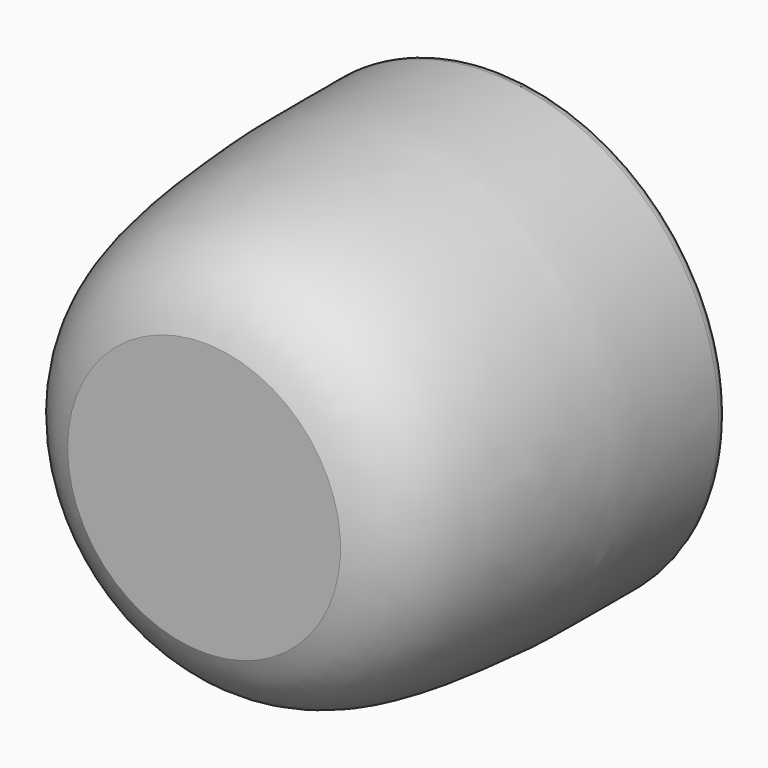
from build123d import *


with BuildPart() as f1:
    # F0 (on Top) → F1 (revolve)
    with BuildSketch(Plane.XY):
        with BuildLine():
            Line((-25.8921254426, 0), (0, 0))
            Line((0, 0), (0, 5.667374935))
            Line((0, 5.667374935), (-25.8921254426, 5.667374935))
            add(Edge.make_bspline(
                [(-25.8921254426, 5.667374935), (-27.6402953881, 6.3520995589), (-31.3795135506, 7.8166795652), (-35.6951770334, 14.4512284735), (-40.3123644374, 41.8267350124), (-39.5979446293, 58.8321199447), (-39.2353354701, 67.2620081082)],
                knots=[0, 0, 0, 0, 0.152132756, 0.3254017527, 0.6639727154, 0.9974828728, 0.9974828728, 0.9974828728, 0.9974828728], degree=3))
            add(Edge.make_bspline(
                [(-39.2353354701, 67.2620081082), (-39.2325987218, 67.3256316588), (-39.2298615127, 67.3892547094), (-39.2271243036, 67.4528777599)],
                knots=[0.9974828728, 0.9974828728, 0.9974828728, 0.9974828728, 1, 1, 1, 1], degree=3))
            ThreePointArc((-39.2271243036, 67.4528777599), (-41.4496250451, 69.6753785014), (-43.6721257865, 67.4528777599))
            add(Edge.make_bspline(
                [(-25.8921254426, 0), (-32.5332335882, 2.4808175139), (-41.6312229925, 11.8722976593), (-43.5179676783, 48.2895696785), (-43.6721257865, 43.6963629743), (-43.6721257865, 67.4528777599)],
                knots=[0, 0, 0, 0, 0.298452373, 0.6501896222, 1, 1, 1, 1], degree=3))
        make_face()
    revolve(axis=Axis((0, 2.8336874675, 0), (0, 1, 0)))


solid = f1.part
